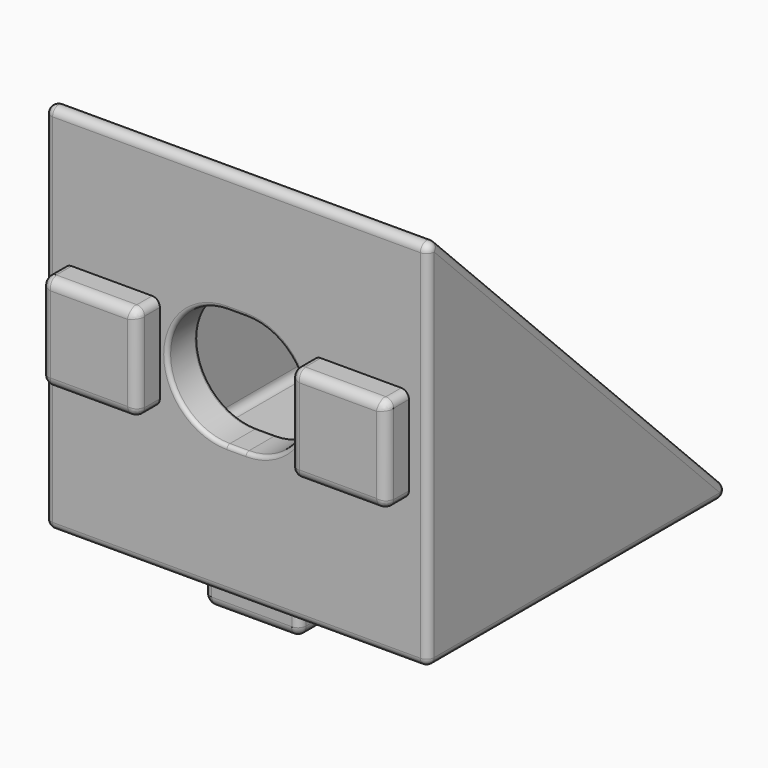
from build123d import *

# Parameters (mm, degrees)
PAD_DEPTH       = 20
THICKNESS_T     = -2
SKETCH001_W     = 5
SKETCH001_H     = 5
PAD001_DEPTH    = 1.5
POCKET_DEPTH    = 5
SKETCH003_W     = 5
SKETCH003_H     = 5
PAD002_DEPTH    = 1.5
POCKET001_DEPTH = 5
FILLET_R        = 0.4
FILLET001_R     = 0.5
FILLET002_R     = 0.2
FILLET003_R     = 0.4


with BuildPart() as part:
    # Sketch → Pad (new body)
    with BuildSketch(Plane.YZ):
        Polygon((0, 0), (20, 0), (0, 20), align=None)
    extrude(amount=PAD_DEPTH)

    # Thickness
    thickness_openings = [part.faces().sort_by_distance(p)[0] for p in [
        (10, 10, 10),
    ]]
    offset(amount=THICKNESS_T, openings=thickness_openings)

    # Sketch001 (on Face2 of Thickness) → Pad001 (join)
    with BuildSketch(Plane.XZ):
        with Locations((3.5, 10)):
            Rectangle(SKETCH001_W, SKETCH001_H)
        with Locations((16.5, 10)):
            Rectangle(SKETCH001_W, SKETCH001_H)
    extrude(amount=PAD001_DEPTH)

    # Sketch002 (on Face2 of Pad001) → Pocket (cut)
    with BuildSketch(Plane.XZ):
        with BuildLine():
            ThreePointArc((9.5, 13.1), (6.4, 10), (9.5, 6.9))
            Line((9.5, 6.9), (10.5, 6.9))
            ThreePointArc((10.5, 6.9), (13.6, 10), (10.5, 13.1))
            Line((10.5, 13.1), (9.5, 13.1))
        make_face()
    extrude(amount=-POCKET_DEPTH, mode=Mode.SUBTRACT)

    # Sketch003 (on Face1 of Pocket) → Pad002 (join)
    with BuildSketch(Plane(origin=(0, 0, 0), x_dir=(1, 0, 0), z_dir=(0, 0, -1))):
        with Locations((10, -3.5)):
            Rectangle(SKETCH003_W, SKETCH003_H)
        with Locations((10, -16.5)):
            Rectangle(SKETCH003_W, SKETCH003_H)
    extrude(amount=PAD002_DEPTH)

    # Sketch004 (on Face1 of Pad002) → Pocket001 (cut)
    with BuildSketch(Plane(origin=(0, 0, 0), x_dir=(1, 0, 0), z_dir=(0, 0, -1))):
        with BuildLine():
            ThreePointArc((13.1, -9.5), (10, -6.4), (6.9, -9.5))
            Line((6.9, -9.5), (6.9, -10.5))
            ThreePointArc((6.9, -10.5), (10, -13.6), (13.1, -10.5))
            Line((13.1, -10.5), (13.1, -9.5))
        make_face()
    extrude(amount=-POCKET001_DEPTH, mode=Mode.SUBTRACT)

    # Fillet
    fillet_edges = [part.edges().sort_by_distance(p)[0] for p in [
        (0, 10, 10),
        (0, 0, 10),
        (0, 10, 0),
        (10, 20, 0),
        (10, 0, 0),
        (20, 10, 0),
        (20, 0, 10),
        (10, 0, 20),
        (20, 10, 10),
        (18, 10, 10),
        (10, 2, 18),
        (2, 10, 10),
        (10, 18, 2),
        (2, 10, 2),
        (2, 2, 10),
        (18, 2, 10),
        (10, 2, 2),
        (18, 10, 2),
    ]]
    fillet(fillet_edges, radius=FILLET_R)

    # Fillet001
    fillet001_edges = [part.edges().sort_by_distance(p)[0] for p in [
        (10, 19, -1.5),
        (7.5, 16.5, -1.5),
        (10, 14, -1.5),
        (12.5, 16.5, -1.5),
        (10, 6, -1.5),
        (7.5, 3.5, -1.5),
        (12.5, 3.5, -1.5),
        (10, 1, -1.5),
        (16.5, -1.5, 7.5),
        (19, -1.5, 10),
        (16.5, -1.5, 12.5),
        (14, -1.5, 10),
        (6, -1.5, 10),
        (3.5, -1.5, 7.5),
        (1, -1.5, 10),
        (3.5, -1.5, 12.5),
    ]]
    fillet(fillet001_edges, radius=FILLET001_R)

    # Fillet002
    fillet002_edges = [part.edges().sort_by_distance(p)[0] for p in [
        (6.4, 2, 10),
        (10, 2, 13.1),
        (13.6, 2, 10),
        (10, 2, 6.9),
        (10, 6.4, 2),
        (6.9, 10, 2),
        (10, 13.6, 2),
        (13.1, 10, 2),
        (6.4, 0, 10),
        (13.6, 0, 10),
        (10, 0, 6.9),
        (10, 0, 13.1),
        (10, 13.6, 0),
        (6.9, 10, 0),
        (10, 6.4, 0),
        (13.1, 10, 0),
    ]]
    fillet(fillet002_edges, radius=FILLET002_R)

    # Fillet003
    fillet003_edges = [part.edges().sort_by_distance(p)[0] for p in [
        (7.5, 1, -0.5),
        (7.676976, 1.176976, -1.381648),
        (12.5, 1, -0.5),
        (12.323024, 1.176976, -1.381648),
        (12.323024, 5.823024, -1.381648),
        (12.5, 6, -0.5),
        (7.676976, 5.823024, -1.381648),
        (7.5, 6, -0.5),
        (7.676976, 14.176976, -1.381648),
        (7.5, 14, -0.5),
        (7.676976, 18.823024, -1.381648),
        (7.5, 19, -0.5),
        (12.323024, 18.823024, -1.381648),
        (12.5, 19, -0.5),
        (12.5, 14, -0.5),
        (12.323024, 14.176976, -1.381648),
        (1, -0.5, 12.5),
        (1.176976, -1.381648, 12.323024),
        (1, -0.5, 7.5),
        (1.176976, -1.381648, 7.676976),
        (5.823024, -1.381648, 7.676976),
        (6, -0.5, 7.5),
        (5.823024, -1.381648, 12.323024),
        (6, -0.5, 12.5),
        (18.823024, -1.381648, 12.323024),
        (19, -0.5, 12.5),
        (18.823024, -1.381648, 7.676976),
        (19, -0.5, 7.5),
        (14.176976, -1.381648, 7.676976),
        (14, -0.5, 7.5),
        (14.176976, -1.381648, 12.323024),
        (14, -0.5, 12.5),
    ]]
    fillet(fillet003_edges, radius=FILLET003_R)


solid = part.part
